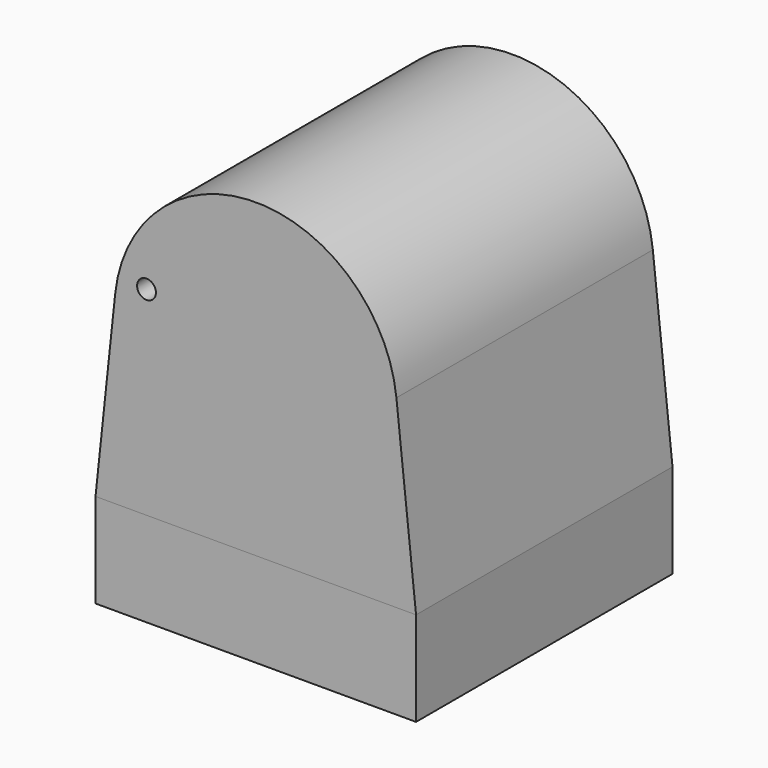
from build123d import *

# Parameters (mm, degrees)
F0_W     = 107.95
F0_H     = 107.95
F1_DEPTH = 31.75
F2_W     = 101.6
F2_H     = 101.6
F3_DEPTH = 28.575
F5_DEPTH = 53.975
F7_D     = 6.35


with BuildPart() as f1:
    # F0 (on Top) → F1 (new body)
    with BuildSketch(Plane.XY):
        Rectangle(F0_W, F0_H)
    extrude(amount=F1_DEPTH)

    # F2 (on face) → F3 (cut)
    with BuildSketch(Plane(origin=(0, 0, 0), x_dir=(1, 0, 0), z_dir=(0, 0, -1))):
        Rectangle(F2_W, F2_H)
    extrude(amount=-F3_DEPTH, mode=Mode.SUBTRACT)


with BuildPart() as f5:
    # F4 (on Front) → F5 (new body, symmetric)
    with BuildSketch(Plane.XZ):
        with BuildLine():
            Line((53.975, 31.75), (47.3576536724, 93.9391729128))
            ThreePointArc((47.3576536724, 93.9391729128), (0, 136.525), (-47.3576536724, 93.9391729128))
            Line((-47.3576536724, 93.9391729128), (-53.975, 31.75))
            Line((-53.975, 31.75), (53.975, 31.75))
        make_face()
    extrude(amount=F5_DEPTH, both=True)

    # F7 (through all)
    with Locations(Plane.XZ.offset(53.975)):
        with Locations((-36.8017739816, 98.7610056184)):
            Hole(F7_D / 2)


solid = Compound([f1.part, f5.part])
